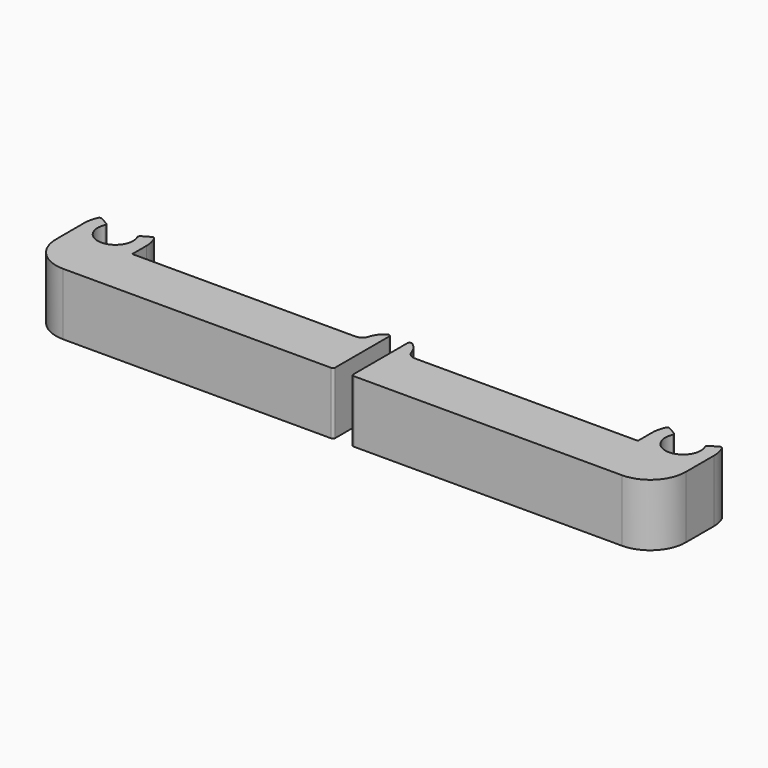
from build123d import *

# Parameters (mm, degrees)
F1_DEPTH = 14
F2_W     = 4.1
F2_H     = 18.371435
F3_DEPTH = 6
F4_R     = 8
F5_R     = 0.5
F6_R     = 2


with BuildPart() as f1:
    # F0 (on Top) → F1 (new body)
    with BuildSketch(Plane.XY):
        with BuildLine():
            Line((-71, -6), (-2.05, -6))
            Line((-2.05, -6), (-2.05, 0))
            Line((-2.05, 0), (-2.05, 6))
            Line((-2.05, 6), (-5, 6))
            Line((-5, 6), (-57, 6))
            Line((-57, 6), (-57, 10))
            ThreePointArc((-57, 10), (-57.238519, 11.811733), (-57.937822, 13.5))
            Line((-57.937822, 13.5), (-60.535898, 12))
            ThreePointArc((-60.535898, 12), (-64, 6), (-67.464102, 12))
            Line((-67.464102, 12), (-70.062178, 13.5))
            ThreePointArc((-70.062178, 13.5), (-70.761481, 11.811733), (-71, 10))
            Line((-71, 10), (-71, 6))
            Line((-71, 6), (-71, -6))
        make_face()
        Polygon((-2.05, 6), (-2.05, 0), (0, 0), (2.05, 0), (2.05, 6), (0, 6), align=None)
        with BuildLine():
            Line((-5, 6), (-2.05, 6))
            Line((-2.05, 6), (0, 6))
            Line((0, 6), (2.05, 6))
            Line((2.05, 6), (5, 6))
            ThreePointArc((5, 6), (0, 11), (-5, 6))
        make_face()
        with BuildLine():
            Line((2.05, 6), (2.05, 0))
            Line((2.05, 0), (2.05, -6))
            Line((2.05, -6), (71, -6))
            Line((71, -6), (71, 6))
            Line((71, 6), (71, 10))
            ThreePointArc((71, 10), (70.761481, 11.811733), (70.062178, 13.5))
            Line((70.062178, 13.5), (67.464102, 12))
            ThreePointArc((67.464102, 12), (64, 6), (60.535898, 12))
            Line((60.535898, 12), (57.937822, 13.5))
            ThreePointArc((57.937822, 13.5), (57.238519, 11.811733), (57, 10))
            Line((57, 10), (57, 6))
            Line((57, 6), (5, 6))
            Line((5, 6), (2.05, 6))
        make_face()
    extrude(amount=F1_DEPTH)

    # F2 (on face) → F3 (cut)
    with BuildSketch(Plane.XY.offset(14)):
        with Locations((0, 9.185717)):
            Rectangle(F2_W, F2_H)
    extrude(amount=-F3_DEPTH, mode=Mode.SUBTRACT)

    # F4
    f4_edges = [f1.edges().sort_by_distance(p)[0] for p in [
        (71, -6, 7),
        (-71, -6, 7),
    ]]
    fillet(f4_edges, radius=F4_R)

    # F5
    f5_edges = [f1.edges().sort_by_distance(p)[0] for p in [
        (2.05, -6, 7),
        (-2.05, -6, 7),
        (-2.05, 10.560428, 11),
        (2.05, 10.560428, 11),
        (-67.464102, 12, 7),
        (-60.535898, 12, 7),
        (60.535898, 12, 7),
        (67.464102, 12, 7),
        (70.062178, 13.5, 7),
        (57.937822, 13.5, 7),
        (-57.937822, 13.5, 7),
        (-70.062178, 13.5, 7),
    ]]
    fillet(f5_edges, radius=F5_R)

    # F6
    f6_edges = [f1.edges().sort_by_distance(p)[0] for p in [
        (-5, 6, 7),
        (5, 6, 7),
    ]]
    fillet(f6_edges, radius=F6_R)


solid = f1.part
